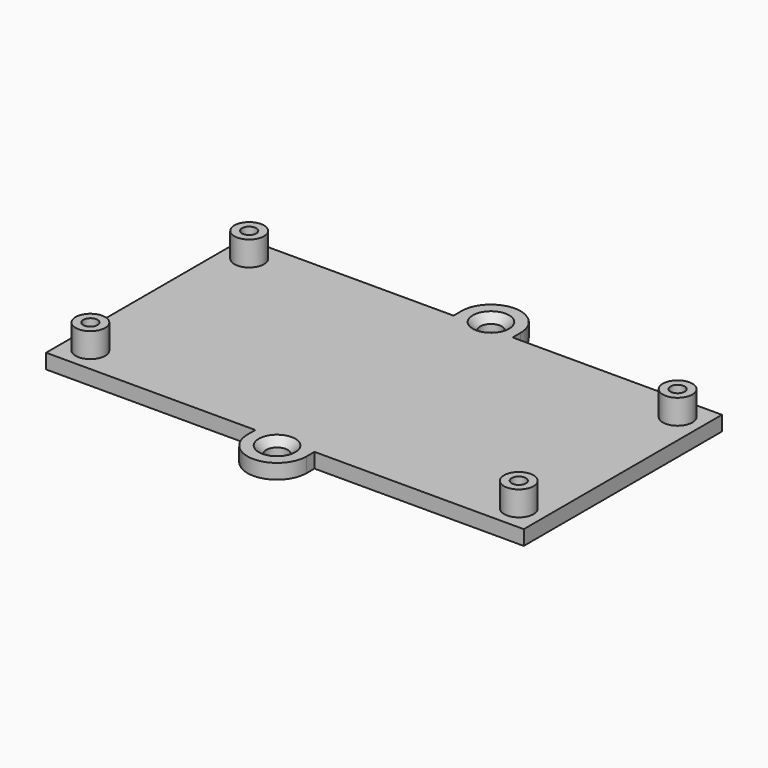
from build123d import *

# Parameters (mm, degrees)
F0_R     = 3
F0_R_2   = 2.2
F0_R_3   = 1.45
F1_DEPTH = 3
F2_DEPTH = 8
F3_SIZE  = 1.5


with BuildPart() as f1:
    # F0 (on Top) → F1 (new body)
    with BuildSketch(Plane.XY):
        with BuildLine():
            Line((48.5, -25.15), (48.5, 25.15))
            Line((48.5, 25.15), (6, 25.15))
            Line((6, 25.15), (6, 27.15))
            ThreePointArc((6, 27.15), (0, 33.15), (-6, 27.15))
            Line((-6, 27.15), (-6, 25.15))
            Line((-6, 25.15), (-48.5, 25.15))
            Line((-48.5, 25.15), (-48.5, -25.15))
            Line((-48.5, -25.15), (-6, -25.15))
            Line((-6, -25.15), (-6, -27.15))
            ThreePointArc((-6, -27.15), (0, -33.15), (6, -27.15))
            Line((6, -27.15), (6, -25.15))
            Line((6, -25.15), (48.5, -25.15))
        make_face()
        with Locations((-43.5, -20.15)):
            Circle(F0_R, mode=Mode.SUBTRACT)
        with Locations((0, -27.15)):
            Circle(F0_R_2, mode=Mode.SUBTRACT)
        with Locations((43.5, -20.15)):
            Circle(F0_R, mode=Mode.SUBTRACT)
        with Locations((-43.5, 20.15)):
            Circle(F0_R, mode=Mode.SUBTRACT)
        with Locations((0, 27.15)):
            Circle(F0_R_2, mode=Mode.SUBTRACT)
        with Locations((43.5, 20.15)):
            Circle(F0_R, mode=Mode.SUBTRACT)
        with Locations((-43.5, 20.15)):
            Circle(F0_R)
        with Locations((-43.5, 20.15)):
            Circle(F0_R_3, mode=Mode.SUBTRACT)
        with Locations((-43.5, -20.15)):
            Circle(F0_R)
        with Locations((-43.5, -20.15)):
            Circle(F0_R_3, mode=Mode.SUBTRACT)
        with Locations((43.5, -20.15)):
            Circle(F0_R)
        with Locations((43.5, -20.15)):
            Circle(F0_R_3, mode=Mode.SUBTRACT)
        with Locations((43.5, 20.15)):
            Circle(F0_R)
        with Locations((43.5, 20.15)):
            Circle(F0_R_3, mode=Mode.SUBTRACT)
    extrude(amount=F1_DEPTH)

    # F0 (on Top) → F2 (join)
    with BuildSketch(Plane.XY):
        with Locations((-43.5, 20.15)):
            Circle(F0_R)
        with Locations((-43.5, 20.15)):
            Circle(F0_R_3, mode=Mode.SUBTRACT)
        with Locations((-43.5, -20.15)):
            Circle(F0_R)
        with Locations((-43.5, -20.15)):
            Circle(F0_R_3, mode=Mode.SUBTRACT)
        with Locations((43.5, 20.15)):
            Circle(F0_R)
        with Locations((43.5, 20.15)):
            Circle(F0_R_3, mode=Mode.SUBTRACT)
        with Locations((43.5, -20.15)):
            Circle(F0_R)
        with Locations((43.5, -20.15)):
            Circle(F0_R_3, mode=Mode.SUBTRACT)
    extrude(amount=F2_DEPTH)

    # F3
    f3_edges = [f1.edges().sort_by_distance(p)[0] for p in [
        (-2.2, 27.15, 3),
        (-2.2, -27.15, 3),
    ]]
    chamfer(f3_edges, length=F3_SIZE)


solid = f1.part
